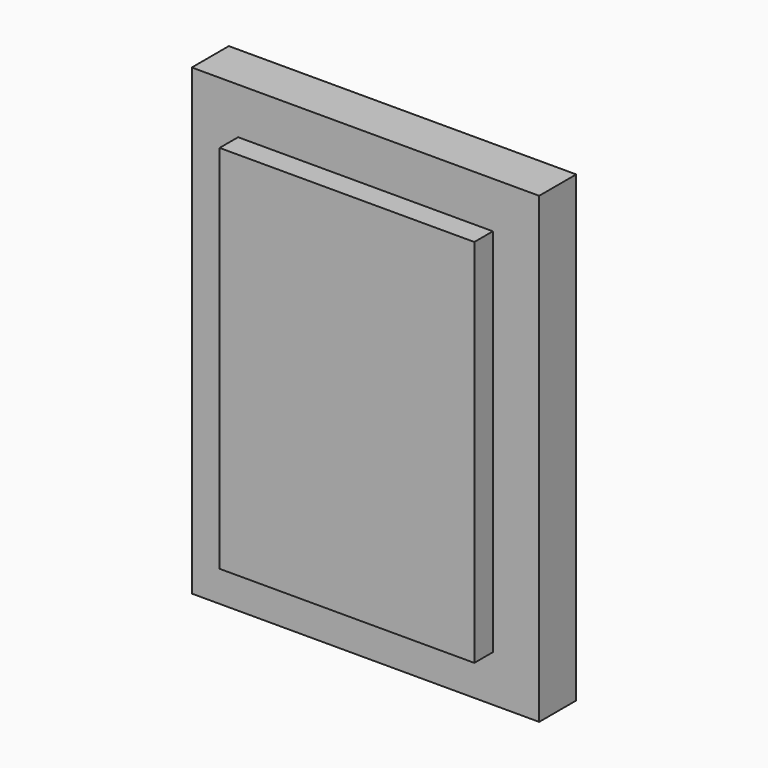
from build123d import *

# Parameters (mm, degrees)
F0_W     = 12
F0_H     = 16
F0_W_2   = 8.8
F0_H_2   = 12.8
F1_DEPTH = 1.6
F2_DEPTH = 2.4
F3_DEPTH = 0.8


with BuildPart() as f1:
    # F0 (on Front) → F1 (new body)
    with BuildSketch(Plane.XZ):
        with Locations((-6, 8)):
            Rectangle(F0_W, F0_H)
        with Locations((-6, 8)):
            Rectangle(F0_W_2, F0_H_2, mode=Mode.SUBTRACT)
    extrude(amount=F1_DEPTH)

    # F0 (on Front) → F2 (join)
    with BuildSketch(Plane.XZ):
        with Locations((-6, 8)):
            Rectangle(F0_W_2, F0_H_2)
        Polygon((-9, 10.4), (-6.4, 10.4), (-6.4, 5.4), (-9, 5.4), (-9, 8.8), align=None, mode=Mode.SUBTRACT)
        Polygon((-5.6, 10.4), (-3, 10.4), (-3, 5.4), (-5.6, 5.4), (-5.6, 8.8), align=None, mode=Mode.SUBTRACT)
        Polygon((-3, 5.4), (-3, 10.4), (-5.6, 8.8), (-5.6, 5.4), align=None)
        Polygon((-5.6, 8.8), (-3, 10.4), (-5.6, 10.4), align=None)
        Polygon((-6.4, 5.4), (-6.4, 10.4), (-9, 8.8), (-9, 5.4), align=None)
        Polygon((-9, 8.8), (-6.4, 10.4), (-9, 10.4), align=None)
    extrude(amount=F2_DEPTH)

    # F0 (on Front) → F3 (cut)
    with BuildSketch(Plane.XZ):
        Polygon((-3, 5.4), (-3, 10.4), (-5.6, 8.8), (-5.6, 5.4), align=None)
        Polygon((-6.4, 5.4), (-6.4, 10.4), (-9, 8.8), (-9, 5.4), align=None)
    extrude(amount=F3_DEPTH, mode=Mode.SUBTRACT)


solid = f1.part
